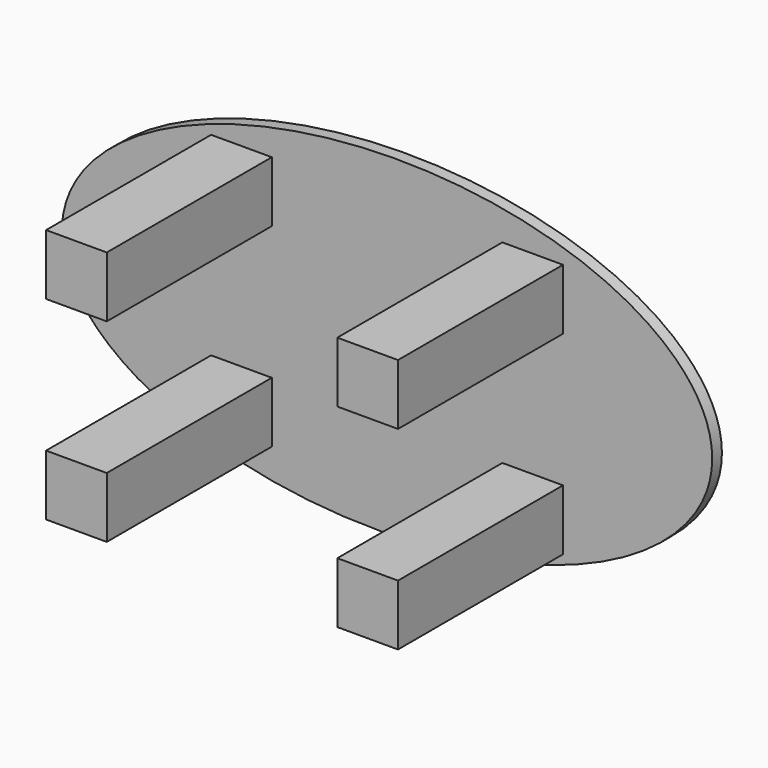
from build123d import *

# Parameters (mm, degrees)
F1_DEPTH = 107.95
F3_DEPTH = 6.35


with BuildPart() as f1:
    # F0 (on Front) → F1 (new body)
    with BuildSketch(Plane.XZ):
        Polygon((-92.075, 34.925), (-76.2, 34.925), (-60.325, 34.925), (-60.325, 66.675), (-92.075, 66.675), align=None)
        Polygon((60.325, 34.925), (76.2, 34.925), (92.075, 34.925), (92.075, 66.675), (60.325, 66.675), align=None)
        Polygon((92.075, -34.925), (76.2, -34.925), (60.325, -34.925), (60.325, -66.675), (92.075, -66.675), align=None)
        Polygon((-60.325, -34.925), (-76.2, -34.925), (-92.075, -34.925), (-92.075, -66.675), (-60.325, -66.675), align=None)
    extrude(amount=F1_DEPTH)


with BuildPart() as f3:
    # F2 (on Front) → F3 (new body)
    with BuildSketch(Plane.XZ):
        with BuildLine():
            add(Edge.make_bspline(
                [(-170.139521, -3.769866), (-166.801879, -154.402505), (86.738582, -73.431386), (340.279043, 7.539733), (83.400939, 77.201253), (-173.477164, 146.862773), (-170.139521, -3.769866)],
                knots=[0, 0, 0, 2.094395, 2.094395, 4.18879, 4.18879, 6.283185, 6.283185, 6.283185], degree=2, weights=[1, 0.5, 1, 0.5, 1, 0.5, 1]))
        make_face()
    extrude(amount=-F3_DEPTH)


solid = Compound([f1.part, f3.part])
